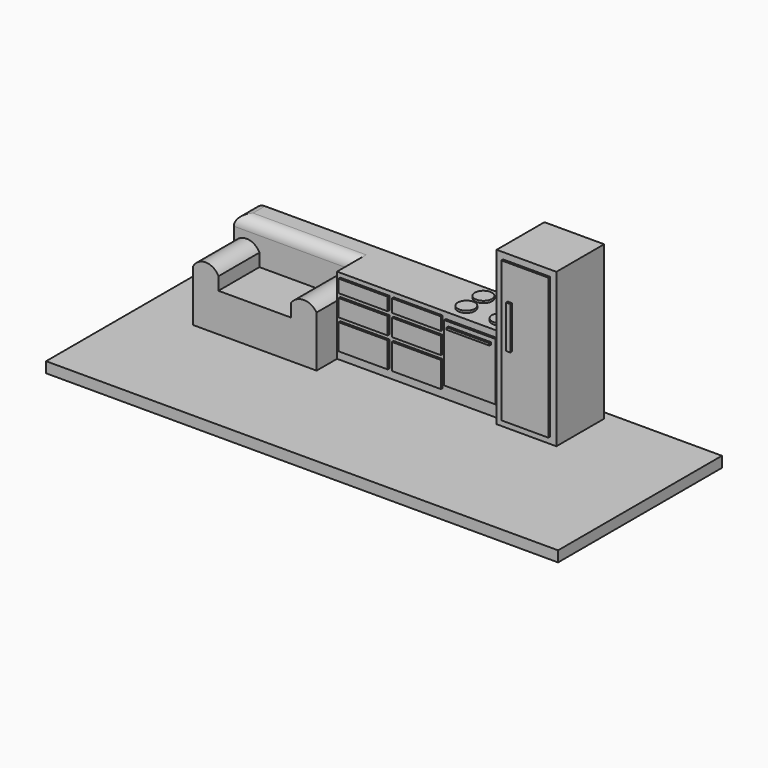
from build123d import *

# Parameters (mm, degrees)
F0_W      = 6096
F0_H      = 2438.4
F1_DEPTH  = 127
F2_W      = 1219.2
F2_H      = 609.6
F2_W_2    = 762
F3_DEPTH  = 914.4
F4_DEPTH  = 1828.8
F5_R      = 101.6
F6_DEPTH  = 25.4
F7_W      = 609.6
F7_H      = 685.8
F8_DEPTH  = 25.4
F9_W      = 508
F9_H      = 25.4
F10_DEPTH = 25.4
F11_W     = 558.8
F11_H     = 1676.4
F12_DEPTH = 25.4
F13_W     = 50.8
F13_H     = 508
F14_DEPTH = 25.4
F15_W     = 584.2
F15_H     = 152.4
F15_H_2   = 203.2
F15_H_3   = 304.8
F16_DEPTH = 25.4
F18_DEPTH = 609.6
F19_R     = 127


with BuildPart() as f1:
    # F0 (on Top) → F1 (new body)
    with BuildSketch(Plane.XY):
        with Locations((1055.2877792192, -0.5022957921)):
            Rectangle(F0_W, F0_H)
    extrude(amount=F1_DEPTH)

    # F2 (on face) → F3 (join)
    with BuildSketch(Plane.XY.offset(127)):
        Polygon((90.0877792192, 1117.0977042079), (-1383.1122207808, 1117.0977042079), (-1383.1122207808, 507.4977042079), (-1383.1122207808, 202.6977042079), (90.0877792192, 202.6977042079), (90.0877792192, 507.4977042079), align=None)
        with Locations((699.6877792192, 812.2977042079)):
            Rectangle(F2_W, F2_H)
        with Locations((1690.2877792192, 812.2977042079)):
            Rectangle(F2_W_2, F2_H)
    extrude(amount=F3_DEPTH)

    # F2 (on face) → F4 (join)
    with BuildSketch(Plane.XY.offset(127)):
        Polygon((2782.4877792192, 1117.0977042079), (2071.2877792192, 1117.0977042079), (2071.2877792192, 507.4977042079), (2071.2877792192, 405.8977042079), (2782.4877792192, 405.8977042079), align=None)
    extrude(amount=F4_DEPTH)

    # F5 (on face) → F6 (join)
    with BuildSketch(Plane.XY.offset(1041.4)):
        with Locations((1893.4877792192, 939.2977042079)):
            Circle(F5_R)
        with Locations((1487.0877792192, 939.2977042079)):
            Circle(F5_R)
        with Locations((1487.0877792192, 685.2977042079)):
            Circle(F5_R)
        with Locations((1893.4877792192, 685.2977042079)):
            Circle(F5_R)
    extrude(amount=F6_DEPTH)

    # F7 (on face) → F8 (join)
    with BuildSketch(Plane.XZ.offset(-507.4977042079)):
        with Locations((1690.2877792192, 622.3)):
            Rectangle(F7_W, F7_H)
    extrude(amount=F8_DEPTH)

    # F9 (on face) → F10 (join)
    with BuildSketch(Plane.XZ.offset(-482.0977042079)):
        with Locations((1690.2877792192, 901.7)):
            Rectangle(F9_W, F9_H)
    extrude(amount=F10_DEPTH)

    # F11 (on face) → F12 (join)
    with BuildSketch(Plane.XZ.offset(-405.8977042079)):
        with Locations((2426.8877792192, 1041.4)):
            Rectangle(F11_W, F11_H)
    extrude(amount=F12_DEPTH)

    # F13 (on face) → F14 (join)
    with BuildSketch(Plane.XZ.offset(-380.4977042079)):
        with Locations((2249.0877792192, 1219.2)):
            Rectangle(F13_W, F13_H)
    extrude(amount=F14_DEPTH)

    # F15 (on face) → F16 (join)
    with BuildSketch(Plane.XZ.offset(-507.4977042079)):
        with Locations((420.2877792192, 914.4)):
            Rectangle(F15_W, F15_H)
        with Locations((1055.2877792192, 914.4)):
            Rectangle(F15_W, F15_H)
        with Locations((420.2877792192, 685.8)):
            Rectangle(F15_W, F15_H_2)
        with Locations((1055.2877792192, 685.8)):
            Rectangle(F15_W, F15_H_2)
        with Locations((420.2877792192, 381)):
            Rectangle(F15_W, F15_H_3)
        with Locations((1055.2877792192, 381)):
            Rectangle(F15_W, F15_H_3)
    extrude(amount=F16_DEPTH)

    # F17 (on face) → F18 (cut)
    with BuildSketch(Plane.XZ.offset(-202.6977042079)):
        with BuildLine():
            Line((-1383.1122207808, 1041.4), (-1383.1122207808, 736.6))
            ThreePointArc((-1383.1122207808, 736.6), (-1230.7122207808, 832.4148533749), (-1078.3122207808, 736.6))
            Line((-1078.3122207808, 736.6), (-1078.3122207808, 584.2))
            Line((-1078.3122207808, 584.2), (-214.7122207808, 584.2))
            Line((-214.7122207808, 584.2), (-214.7122207808, 736.6))
            ThreePointArc((-214.7122207808, 736.6), (-62.3122207808, 818.7177664051), (90.0877792192, 736.6))
            Line((90.0877792192, 736.6), (90.0877792192, 1041.4))
            Line((90.0877792192, 1041.4), (-1383.1122207808, 1041.4))
        make_face()
    extrude(amount=-F18_DEPTH, mode=Mode.SUBTRACT)

    # F19
    f19_edges = [f1.edges().sort_by_distance(p)[0] for p in [
        (-646.512221, 812.297704, 1041.4),
        (-1383.112221, 964.697704, 1041.4),
    ]]
    fillet(f19_edges, radius=F19_R)


solid = f1.part
